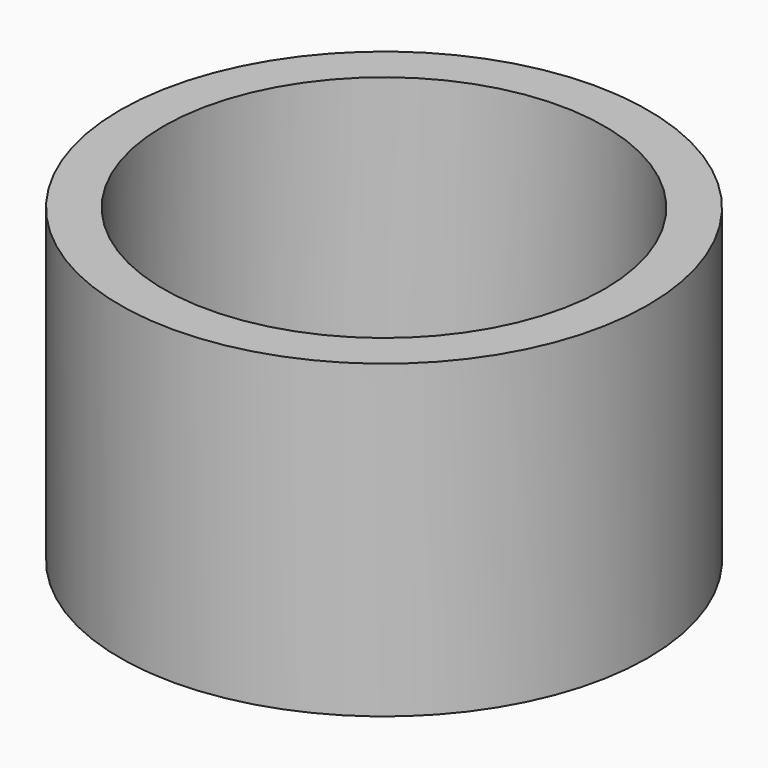
from build123d import *

# Parameters (mm, degrees)
F0_R     = 42.5
F0_R_2   = 35.5
F1_DEPTH = 8
F2_DEPTH = 50
F3_DEPTH = 4


with BuildPart() as f1:
    # F0 (on Top) → F1 (new body)
    with BuildSketch(Plane.XY):
        with Locations((26.75, -15.44412)):
            Circle(F0_R)
        with Locations((26.75, -15.44412)):
            Circle(F0_R_2, mode=Mode.SUBTRACT)
        with Locations((26.75, -15.44412)):
            Circle(F0_R_2)
        with BuildLine():
            ThreePointArc((1.125, -1.948557), (-1.948557, 1.125), (2.25, 0))
            Line((2.25, 0), (26.75, 0))
            Line((26.75, 0), (51.25, 0))
            ThreePointArc((51.25, 0), (53.5, 2.25), (55.75, 0))
            ThreePointArc((55.75, 0), (54.625, -1.948557), (52.375, -1.948557))
            Line((52.375, -1.948557), (40.125, -23.16618))
            Line((40.125, -23.16618), (27.875, -44.383802))
            ThreePointArc((27.875, -44.383802), (28.698557, -45.207359), (29, -46.332359))
            ThreePointArc((29, -46.332359), (25.625, -48.280916), (25.625, -44.383802))
            Line((25.625, -44.383802), (13.375, -23.16618))
            Line((13.375, -23.16618), (1.125, -1.948557))
        make_face(mode=Mode.SUBTRACT)
        with BuildLine():
            Line((26.75, -15.44412), (13.375, -23.16618))
            Line((13.375, -23.16618), (25.625, -44.383802))
            ThreePointArc((25.625, -44.383802), (26.167657, -44.159026), (26.75, -44.082359))
            Line((26.75, -44.082359), (26.75, -15.44412))
        make_face()
        with BuildLine():
            ThreePointArc((1.948557, -1.125), (1.59099, -1.59099), (1.125, -1.948557))
            Line((1.125, -1.948557), (13.375, -23.16618))
            Line((13.375, -23.16618), (26.75, -15.44412))
            Line((26.75, -15.44412), (1.948557, -1.125))
        make_face()
        with BuildLine():
            Line((51.551443, -1.125), (26.75, -15.44412))
            Line((26.75, -15.44412), (40.125, -23.16618))
            Line((40.125, -23.16618), (52.375, -1.948557))
            ThreePointArc((52.375, -1.948557), (51.90901, -1.59099), (51.551443, -1.125))
        make_face()
        with BuildLine():
            Line((51.25, 0), (26.75, 0))
            Line((26.75, 0), (26.75, -15.44412))
            Line((26.75, -15.44412), (51.551443, -1.125))
            ThreePointArc((51.551443, -1.125), (51.326667, -0.582343), (51.25, 0))
        make_face()
        with BuildLine():
            Line((40.125, -23.16618), (26.75, -15.44412))
            Line((26.75, -15.44412), (26.75, -44.082359))
            ThreePointArc((26.75, -44.082359), (27.332343, -44.159026), (27.875, -44.383802))
            Line((27.875, -44.383802), (40.125, -23.16618))
        make_face()
        with BuildLine():
            Line((26.75, 0), (2.25, 0))
            ThreePointArc((2.25, 0), (2.173333, -0.582343), (1.948557, -1.125))
            Line((1.948557, -1.125), (26.75, -15.44412))
            Line((26.75, -15.44412), (26.75, 0))
        make_face()
    extrude(amount=F1_DEPTH)

    # F0 (on Top) → F2 (join)
    with BuildSketch(Plane.XY):
        with Locations((26.75, -15.44412)):
            Circle(F0_R)
        with Locations((26.75, -15.44412)):
            Circle(F0_R_2, mode=Mode.SUBTRACT)
    extrude(amount=F2_DEPTH)

    # F0 (on Top) → F3 (cut)
    with BuildSketch(Plane.XY):
        with Locations((26.75, -15.44412)):
            Circle(F0_R_2)
        with BuildLine():
            ThreePointArc((1.125, -1.948557), (-1.948557, 1.125), (2.25, 0))
            Line((2.25, 0), (26.75, 0))
            Line((26.75, 0), (51.25, 0))
            ThreePointArc((51.25, 0), (53.5, 2.25), (55.75, 0))
            ThreePointArc((55.75, 0), (54.625, -1.948557), (52.375, -1.948557))
            Line((52.375, -1.948557), (40.125, -23.16618))
            Line((40.125, -23.16618), (27.875, -44.383802))
            ThreePointArc((27.875, -44.383802), (28.698557, -45.207359), (29, -46.332359))
            ThreePointArc((29, -46.332359), (25.625, -48.280916), (25.625, -44.383802))
            Line((25.625, -44.383802), (13.375, -23.16618))
            Line((13.375, -23.16618), (1.125, -1.948557))
        make_face(mode=Mode.SUBTRACT)
        with BuildLine():
            Line((26.75, 0), (2.25, 0))
            ThreePointArc((2.25, 0), (2.173333, -0.582343), (1.948557, -1.125))
            Line((1.948557, -1.125), (26.75, -15.44412))
            Line((26.75, -15.44412), (26.75, 0))
        make_face()
        with BuildLine():
            Line((51.25, 0), (26.75, 0))
            Line((26.75, 0), (26.75, -15.44412))
            Line((26.75, -15.44412), (51.551443, -1.125))
            ThreePointArc((51.551443, -1.125), (51.326667, -0.582343), (51.25, 0))
        make_face()
        with BuildLine():
            Line((26.75, -15.44412), (13.375, -23.16618))
            Line((13.375, -23.16618), (25.625, -44.383802))
            ThreePointArc((25.625, -44.383802), (26.167657, -44.159026), (26.75, -44.082359))
            Line((26.75, -44.082359), (26.75, -15.44412))
        make_face()
        with BuildLine():
            ThreePointArc((1.948557, -1.125), (1.59099, -1.59099), (1.125, -1.948557))
            Line((1.125, -1.948557), (13.375, -23.16618))
            Line((13.375, -23.16618), (26.75, -15.44412))
            Line((26.75, -15.44412), (1.948557, -1.125))
        make_face()
        with BuildLine():
            Line((51.551443, -1.125), (26.75, -15.44412))
            Line((26.75, -15.44412), (40.125, -23.16618))
            Line((40.125, -23.16618), (52.375, -1.948557))
            ThreePointArc((52.375, -1.948557), (51.90901, -1.59099), (51.551443, -1.125))
        make_face()
        with BuildLine():
            Line((40.125, -23.16618), (26.75, -15.44412))
            Line((26.75, -15.44412), (26.75, -44.082359))
            ThreePointArc((26.75, -44.082359), (27.332343, -44.159026), (27.875, -44.383802))
            Line((27.875, -44.383802), (40.125, -23.16618))
        make_face()
    extrude(amount=F3_DEPTH, mode=Mode.SUBTRACT)


solid = f1.part
